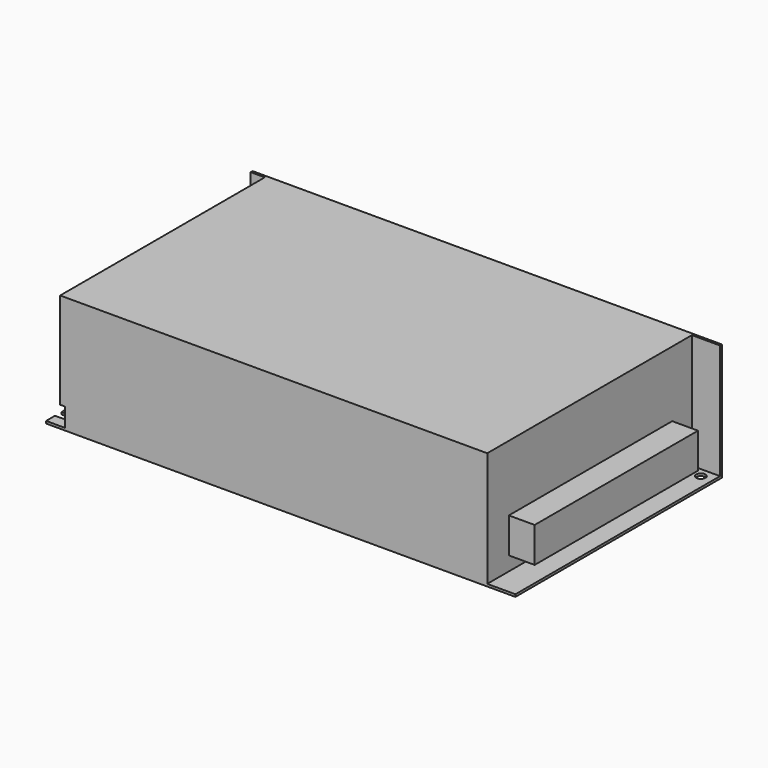
from build123d import *

# Parameters (mm, degrees)
SKETCH_W        = 200
SKETCH_H        = 110
SKETCH_R        = 2
PAD_DEPTH       = 50
SKETCH001_W     = 8
SKETCH001_H     = 13
POCKET_DEPTH    = 8
POCKET001_DEPTH = 109.001
SKETCH003_W     = 6
SKETCH003_H     = 13
POCKET002_DEPTH = 49.001
SKETCH004_W     = 12
SKETCH004_H     = 109
POCKET003_DEPTH = 49.001
POCKET004_DEPTH = 1
SKETCH006_W     = 15
SKETCH006_H     = 87
PAD001_DEPTH    = 15


with BuildPart() as body:
    # Sketch → Pad (new body)
    with BuildSketch(Plane.XY):
        Rectangle(SKETCH_W, SKETCH_H)
        with Locations((95, 50)):
            Circle(SKETCH_R, mode=Mode.SUBTRACT)
    extrude(amount=PAD_DEPTH)

    # Sketch001 → Pocket (cut)
    with BuildSketch(Plane.XY.offset(1)):
        with Locations((-96, -48.5)):
            Rectangle(SKETCH001_W, SKETCH001_H)
    extrude(amount=POCKET_DEPTH, mode=Mode.SUBTRACT)

    # Sketch002 → Pocket001 (cut, through all)
    with BuildSketch(Plane.XZ.offset(-54)):
        Polygon((-100, 6), (-94, 12), (-94, 50), (-100, 50), align=None)
    extrude(amount=POCKET001_DEPTH, mode=Mode.SUBTRACT)

    # Sketch003 → Pocket002 (cut, through all)
    with BuildSketch(Plane.XY.offset(1)):
        with Locations((-97, -48.5)):
            Rectangle(SKETCH003_W, SKETCH003_H)
    extrude(amount=POCKET002_DEPTH, mode=Mode.SUBTRACT)

    # Sketch004 → Pocket003 (cut, through all)
    with BuildSketch(Plane.XY.offset(1)):
        with Locations((94, -0.5)):
            Rectangle(SKETCH004_W, SKETCH004_H)
    extrude(amount=POCKET003_DEPTH, mode=Mode.SUBTRACT)

    # Sketch005 → Pocket004 (cut)
    with BuildSketch(Plane.XY):
        with BuildLine():
            ThreePointArc((-97, -50.25), (-95.25, -48.5), (-97, -46.75))
            Line((-100, -46.75), (-97, -46.75))
            Line((-100, -50.25), (-100, -46.75))
            Line((-97, -50.25), (-100, -50.25))
        make_face()
    extrude(amount=POCKET004_DEPTH, mode=Mode.SUBTRACT)


with BuildPart() as terminal_block:
    # Sketch006 → Pad001 (new body)
    with BuildSketch(Plane.XY.offset(7)):
        with Locations((91.5, 0)):
            Rectangle(SKETCH006_W, SKETCH006_H)
    extrude(amount=PAD001_DEPTH)


solid = Compound([body.part, terminal_block.part])
